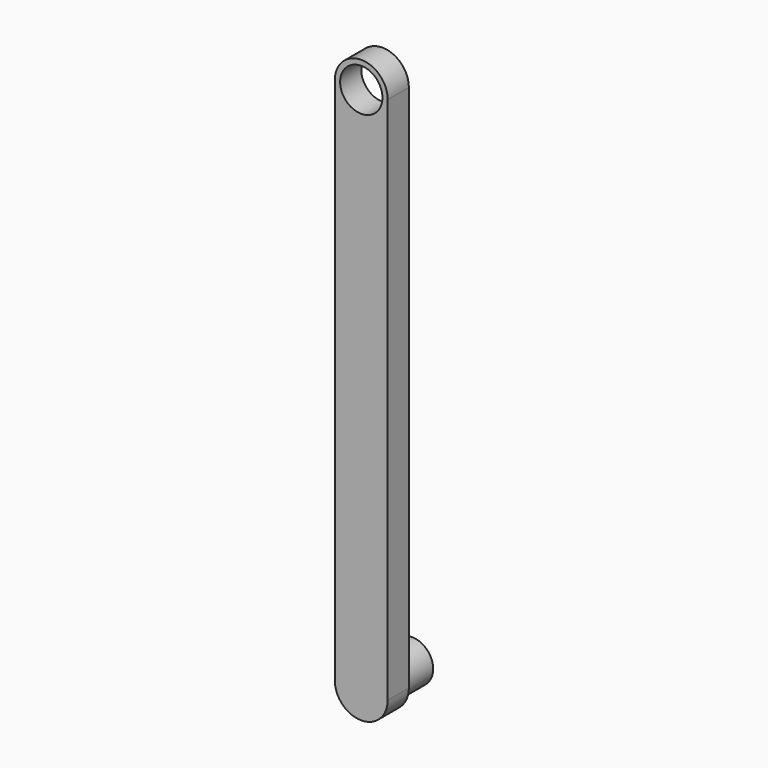
from build123d import *

# Parameters (mm, degrees)
F1_DEPTH = 5
F2_DEPTH = 7


with BuildPart() as f1:
    # F0 (on Front) → F1 (new body)
    with BuildSketch(Plane.XZ):
        with BuildLine():
            ThreePointArc((1, 0), (5, 4), (9, 0))
            Line((9, 0), (10, 0))
            ThreePointArc((10, 0), (5, 5), (0, 0))
            Line((0, 0), (1, 0))
        make_face()
        with BuildLine():
            Line((10, 0), (9, 0))
            ThreePointArc((9, 0), (5, -4), (1, 0))
            Line((1, 0), (0, 0))
            ThreePointArc((0, 0), (5, -5), (10, 0))
        make_face()
        with BuildLine():
            Line((10, -100), (10, 0))
            ThreePointArc((10, 0), (5, -5), (0, 0))
            Line((0, 0), (0, -100))
            ThreePointArc((0, -100), (5, -95), (10, -100))
        make_face()
        with BuildLine():
            ThreePointArc((0, -100), (5, -105), (10, -100))
            Line((10, -100), (9, -100))
            ThreePointArc((9, -100), (5, -104), (1, -100))
            Line((1, -100), (0, -100))
        make_face()
        with BuildLine():
            Line((9, -100), (10, -100))
            ThreePointArc((10, -100), (5, -95), (0, -100))
            Line((0, -100), (1, -100))
            ThreePointArc((1, -100), (5, -96), (9, -100))
        make_face()
        with BuildLine():
            ThreePointArc((1, -100), (5, -104), (9, -100))
            Line((9, -100), (1, -100))
        make_face()
        with BuildLine():
            Line((1, -100), (9, -100))
            ThreePointArc((9, -100), (5, -96), (1, -100))
        make_face()
    extrude(amount=F1_DEPTH)

    # F0 (on Front) → F2 (join)
    with BuildSketch(Plane.XZ):
        with BuildLine():
            ThreePointArc((1, -100), (5, -104), (9, -100))
            Line((9, -100), (1, -100))
        make_face()
        with BuildLine():
            Line((1, -100), (9, -100))
            ThreePointArc((9, -100), (5, -96), (1, -100))
        make_face()
    extrude(amount=-F2_DEPTH)


solid = f1.part
